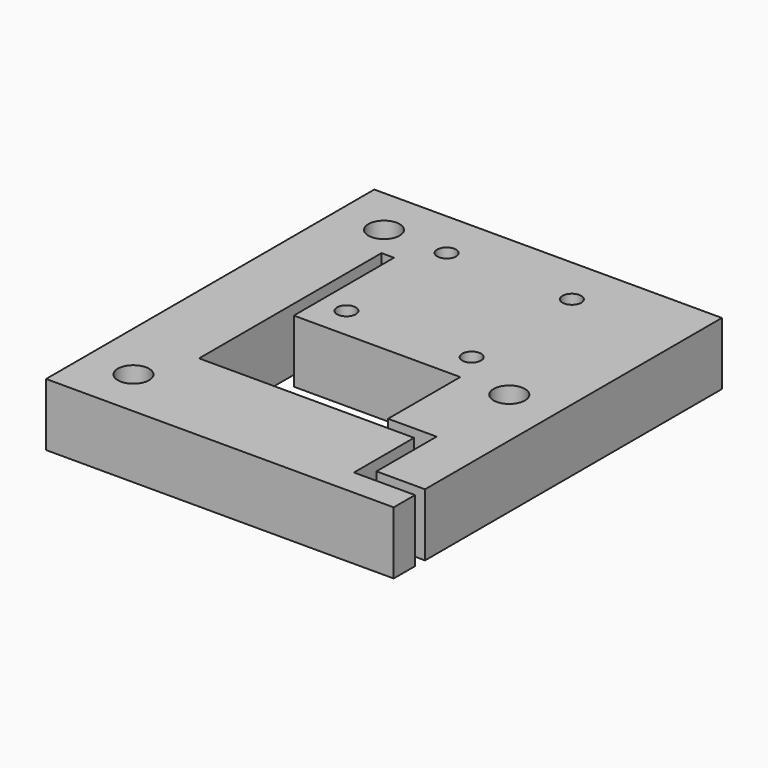
from build123d import *

# Parameters (mm, degrees)
F0_W     = 18.055651
F0_H     = 19.996384
F0_R     = 1.5
F0_R_2   = 2.5
F1_DEPTH = 10


with BuildPart() as f1:
    # F0 (on Top) → F1 (new body)
    with BuildSketch(Plane.XY):
        Polygon((27.75, 17.92413), (-27.75, 17.92413), (-27.75, -47.57587), (27.75, -47.57587), (27.75, -43.32587), (18, -43.32587), (18, -31.32587), (3.730651, -31.32587), (-12.5, -31.32587), (-14.325, -31.32587), (-16.325, -31.32587), (-16.325, 5.07714), (-14.325, 5.07714), (3.730651, 5.07714), (3.730651, -14.919244), (12.25, -14.919244), (12.25, -29.32587), (20, -29.32587), (20, -41.32587), (27.75, -41.32587), align=None)
        Polygon((-20, -35.207068), (-16, -37.516469), (-16, -42.135271), (-20, -44.444672), (-24, -42.135271), (-24, -37.516469), align=None, mode=Mode.SUBTRACT)
        Polygon((-20, 14.792932), (-16, 12.483531), (-16, 7.864729), (-20, 5.555328), (-24, 7.864729), (-24, 12.483531), align=None, mode=Mode.SUBTRACT)
        Polygon((-10, 13.436159), (-7.175, 11.805145), (-7.175, 8.543116), (-10, 6.912101), (-12.825, 8.543116), (-12.825, 11.805145), align=None, mode=Mode.SUBTRACT)
        Polygon((10, -6.563841), (12.825, -8.194855), (12.825, -11.456884), (10, -13.087899), (7.175, -11.456884), (7.175, -8.194855), align=None, mode=Mode.SUBTRACT)
        Polygon((20, -10.207068), (24, -12.516469), (24, -17.135271), (20, -19.444672), (16, -17.135271), (16, -12.516469), align=None, mode=Mode.SUBTRACT)
        Polygon((10, 13.436159), (12.825, 11.805145), (12.825, 8.543116), (10, 6.912101), (7.175, 8.543116), (7.175, 11.805145), align=None, mode=Mode.SUBTRACT)
        with Locations((-5.297174, -4.921052)):
            Rectangle(F0_W, F0_H)
        Polygon((-10, -6.563841), (-7.175, -8.194855), (-7.175, -11.456884), (-10, -13.087899), (-12.825, -11.456884), (-12.825, -8.194855), align=None, mode=Mode.SUBTRACT)
        Polygon((-7.175, -11.456884), (-7.175, -8.194855), (-10, -6.563841), (-12.825, -8.194855), (-12.825, -11.456884), (-10, -13.087899), align=None)
        with Locations((-10, -9.82587)):
            Circle(F0_R, mode=Mode.SUBTRACT)
        Polygon((12.825, -11.456884), (12.825, -8.194855), (10, -6.563841), (7.175, -8.194855), (7.175, -11.456884), (10, -13.087899), align=None)
        with Locations((10, -9.82587)):
            Circle(F0_R, mode=Mode.SUBTRACT)
        Polygon((24, -17.135271), (24, -12.516469), (20, -10.207068), (16, -12.516469), (16, -17.135271), (20, -19.444672), align=None)
        with Locations((20, -14.82587)):
            Circle(F0_R_2, mode=Mode.SUBTRACT)
        Polygon((12.825, 8.543116), (12.825, 11.805145), (10, 13.436159), (7.175, 11.805145), (7.175, 8.543116), (10, 6.912101), align=None)
        with Locations((10, 10.17413)):
            Circle(F0_R, mode=Mode.SUBTRACT)
        Polygon((-7.175, 8.543116), (-7.175, 11.805145), (-10, 13.436159), (-12.825, 11.805145), (-12.825, 8.543116), (-10, 6.912101), align=None)
        with Locations((-10, 10.17413)):
            Circle(F0_R, mode=Mode.SUBTRACT)
        Polygon((-16, 7.864729), (-16, 12.483531), (-20, 14.792932), (-24, 12.483531), (-24, 7.864729), (-20, 5.555328), align=None)
        with Locations((-20, 10.17413)):
            Circle(F0_R_2, mode=Mode.SUBTRACT)
        Polygon((-16, -42.135271), (-16, -37.516469), (-20, -35.207068), (-24, -37.516469), (-24, -42.135271), (-20, -44.444672), align=None)
        with Locations((-20, -39.82587)):
            Circle(F0_R_2, mode=Mode.SUBTRACT)
    extrude(amount=F1_DEPTH)


solid = f1.part
